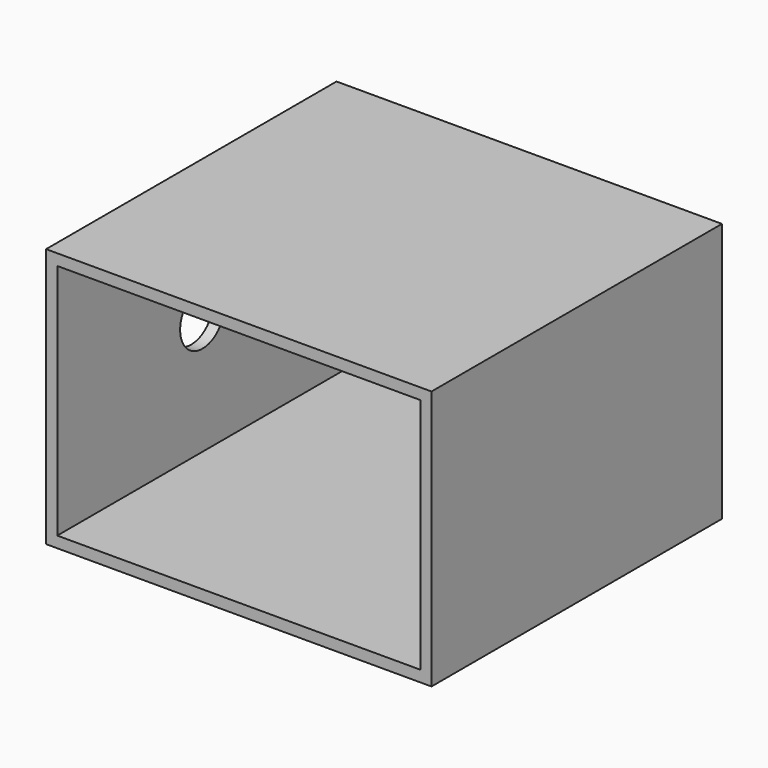
from build123d import *

# Parameters (mm, degrees)
F0_W     = 27.6
F0_H     = 18.6
F0_W_2   = 26
F0_H_2   = 17
F1_DEPTH = 26
F2_R     = 2
F3_DEPTH = 3


with BuildPart() as f1:
    # F0 (on Front) → F1 (new body)
    with BuildSketch(Plane.XZ):
        Rectangle(F0_W, F0_H)
        Rectangle(F0_W_2, F0_H_2, mode=Mode.SUBTRACT)
    extrude(amount=F1_DEPTH)

    # F2 (on face) → F3 (cut)
    with BuildSketch(Plane(origin=(-13.8, 0, 0), x_dir=(0, -1, 0), z_dir=(-1, 0, 0))):
        with Locations((13, 0)):
            Circle(F2_R)
    extrude(amount=-F3_DEPTH, mode=Mode.SUBTRACT)


solid = f1.part
